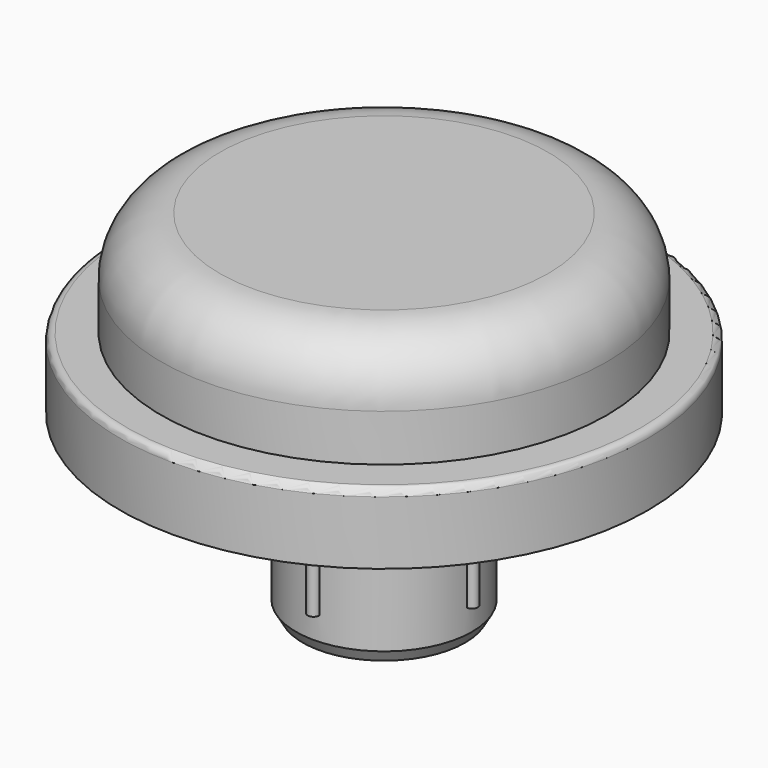
from build123d import *

# Parameters (mm, degrees)
F0_R     = 11.25
F1_DEPTH = 3
F2_R     = 9.5
F3_DEPTH = 7.5
F4_R     = 3.75
F5_DEPTH = 7.5
F6_R     = 0.25
F7_DEPTH = 6
F8_SIZE2 = 0.288675
F8_SIZE  = 0.5
F9_R     = 0.3
F10_R    = 2.5


with BuildPart() as f1:
    # F0 (on Top) → F1 (new body)
    with BuildSketch(Plane.XY):
        Circle(F0_R)
    extrude(amount=F1_DEPTH)

    # F2 (on Top) → F3 (join)
    with BuildSketch(Plane.XY):
        Circle(F2_R)
    extrude(amount=F3_DEPTH)

    # F4 (on Top) → F5 (join)
    with BuildSketch(Plane.XY):
        Circle(F4_R)
    extrude(amount=-F5_DEPTH)

    # F6 (on Top) → F7 (join)
    with BuildSketch(Plane.XY):
        with Locations((0, 3.75)):
            Circle(F6_R)
        with Locations((3.75, 0)):
            Circle(F6_R)
        with Locations((0, -3.75)):
            Circle(F6_R)
        with Locations((-3.75, 0)):
            Circle(F6_R)
    extrude(amount=-F7_DEPTH)

    # F8
    f8_edges = [f1.edges().sort_by_distance(p)[0] for p in [
        (-3.75, 0, -7.5),
    ]]
    chamfer(f8_edges, length=F8_SIZE, length2=F8_SIZE2)

    # F9
    f9_edges = [f1.edges().sort_by_distance(p)[0] for p in [
        (-11.25, 0, 3),
    ]]
    fillet(f9_edges, radius=F9_R)

    # F10
    f10_edges = [f1.edges().sort_by_distance(p)[0] for p in [
        (-9.5, 0, 7.5),
    ]]
    fillet(f10_edges, radius=F10_R)


solid = f1.part
